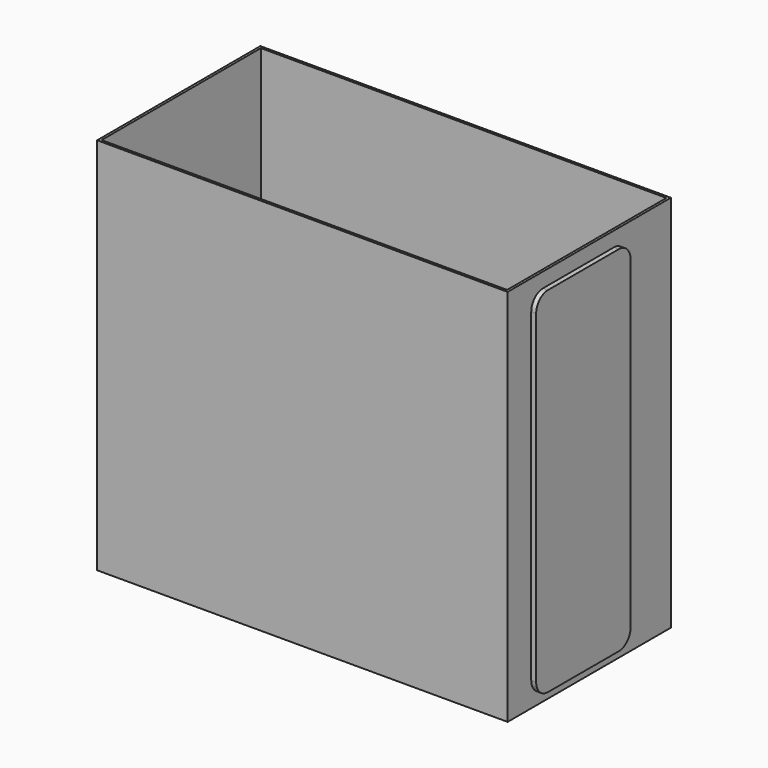
from build123d import *

# Parameters (mm, degrees)
F0_W     = 2120.9
F0_H     = 1054.1
F0_W_2   = 2095.5
F0_H_2   = 1028.7
F1_DEPTH = 1955.8
F3_DEPTH = 12.7
F5_DEPTH = 25.4


with BuildPart() as f1:
    # F0 (on Top) → F1 (new body)
    with BuildSketch(Plane.XY):
        with Locations((1060.45, 527.05)):
            Rectangle(F0_W, F0_H)
        with Locations((1060.45, 527.05)):
            Rectangle(F0_W_2, F0_H_2, mode=Mode.SUBTRACT)
    extrude(amount=F1_DEPTH)

    # F2 (on face) → F3 (cut, through all)
    with BuildSketch(Plane.YZ.offset(2120.9)):
        with BuildLine():
            ThreePointArc((152.4, 127), (174.718463, 73.118463), (228.6, 50.8))
            Line((228.6, 50.8), (685.8, 50.8))
            ThreePointArc((685.8, 50.8), (739.681537, 73.118463), (762, 127))
            Line((762, 127), (762, 1803.4))
            ThreePointArc((762, 1803.4), (739.681537, 1857.281537), (685.8, 1879.6))
            Line((685.8, 1879.6), (228.6, 1879.6))
            ThreePointArc((228.6, 1879.6), (174.718463, 1857.281537), (152.4, 1803.4))
            Line((152.4, 1803.4), (152.4, 127))
        make_face()
    extrude(amount=-F3_DEPTH, mode=Mode.SUBTRACT)


with BuildPart() as f5:
    # F4 (on face) → F5 (new body)
    with BuildSketch(Plane.YZ.offset(2120.9)):
        with BuildLine():
            ThreePointArc((228.6, 1879.6), (174.718463, 1857.281537), (152.4, 1803.4))
            Line((152.4, 1803.4), (152.4, 127))
            ThreePointArc((152.4, 127), (174.718463, 73.118463), (228.6, 50.8))
            Line((228.6, 50.8), (685.8, 50.8))
            ThreePointArc((685.8, 50.8), (739.681537, 73.118463), (762, 127))
            Line((762, 127), (762, 1803.4))
            ThreePointArc((762, 1803.4), (739.681537, 1857.281537), (685.8, 1879.6))
            Line((685.8, 1879.6), (228.6, 1879.6))
        make_face()
    extrude(amount=F5_DEPTH)


solid = Compound([f1.part, f5.part])
